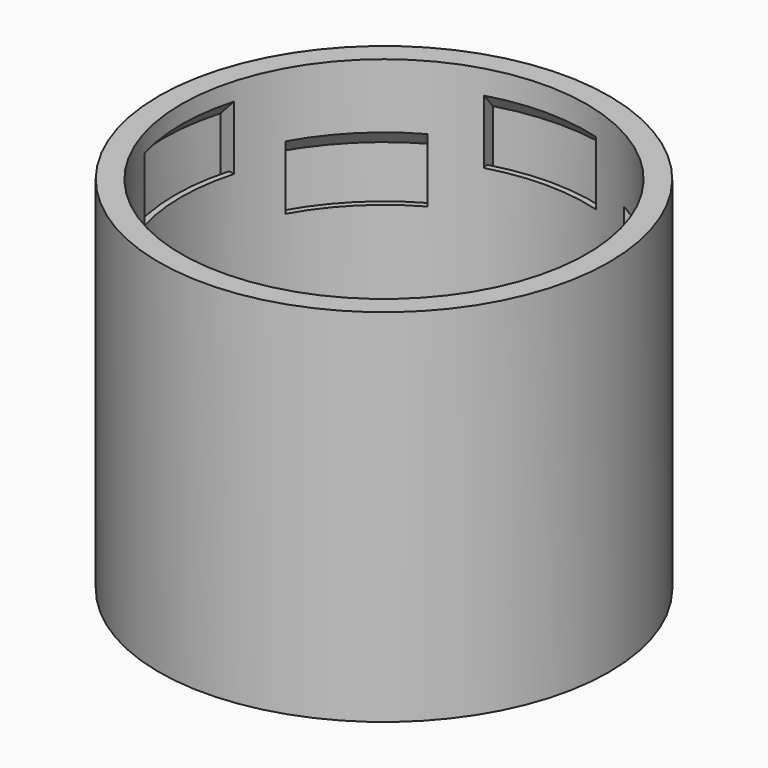
from build123d import *

# Parameters (mm, degrees)
F2_ANGLE_BACK  = 16
F2_ANGLE       = 32
F4_ANGLE_BACK  = 16
F4_ANGLE       = 32
F6_DEPTH       = 0.1
F8_ANGLE_BACK  = 16
F8_ANGLE       = 32
F10_ANGLE_BACK = 16
F10_ANGLE      = 32


with BuildPart() as f1:
    # F0 (on Front) → F1 (revolve)
    with BuildSketch(Plane.XZ):
        Polygon((-35, 42.8018823761), (-34, 42.8018823761), (-34, 44.8018823761), (-34, 48.5), (-34, 53), (-34, 53.5), (-37, 50.5), (-37, 48.5), (-37, 37.8018823761), (-35, 37.8018823761), (-35, 41.8022545199), align=None)
        Polygon((-37.35, -4), (-34, 0), (-34, 0.8), (-34, 10.8), (-34, 21), (-34, 36.8018823761), (-34, 37.8018823761), (-34, 42.8018823761), (-35, 42.8018823761), (-35, 41.8022545199), (-35, 37.8018823761), (-37, 37.8018823761), (-37, 48.5), (-37, 50.5), (-34, 53.5), (-34, 54.5), (-34, 56.5), (-37.75, 56.5), (-37.75, -4), align=None)
        Polygon((0, 0.8), (-24, 0.8), (-24, 0), (-23, 0), (0, 0), align=None)
        Polygon((-24, 0), (-27, 0), (-25, -4), (-23, 0), align=None)
        with BuildLine():
            Line((-34, 10.8), (-34, 0.8))
            Line((-34, 0.8), (-24, 0.8))
            ThreePointArc((-24, 0.8), (-31.0710678119, 3.7289321881), (-34, 10.8))
        make_face()
        Polygon((-34, 0.8), (-34, 0), (-27, 0), (-24, 0), (-24, 0.8), align=None)
    revolve(axis=Axis((0, 0, 27.5), (0, 0, 1)))

    # F0 (on Front) → F2 (revolve, cut)
    with BuildSketch(Plane.XZ, mode=Mode.PRIVATE) as f2_sk:
        Polygon((-35, 42.8018823761), (-34, 42.8018823761), (-34, 44.8018823761), (-34, 48.5), (-34, 53), (-34, 53.5), (-37, 50.5), (-37, 48.5), (-37, 37.8018823761), (-35, 37.8018823761), (-35, 41.8022545199), align=None)
        Polygon((35, 37.802), (37, 37.802), (37, 39.8018823761), (37, 48.5001176239), (37, 50.5001176239), (34, 53.5001176239), (34, 53.0001176239), (34, 48.5001176239), (34, 42.802), (35, 42.802), (35, 41.8023721437), align=None)
    revolve(f2_sk.sketch.rotate(Axis((0, 0, 27.5), (0, 0, -1)), -F2_ANGLE_BACK), axis=Axis((0, 0, 27.5), (0, 0, -1)), revolution_arc=F2_ANGLE, mode=Mode.SUBTRACT)

    # F3 (on Right) → F4 (revolve, cut)
    with BuildSketch(Plane.YZ, mode=Mode.PRIVATE) as f4_sk:
        Polygon((-34, 52.0001176239), (-34, 52.5001176239), (-37, 49.5001176239), (-37, 47.5001176239), (-37, 36.802), (-35, 36.802), (-35, 40.8023721437), (-35, 41.802), (-34, 41.802), (-34, 47.5001176239), align=None)
        Polygon((37, 49.5001176239), (34, 52.5001176239), (34, 52.0001176239), (34, 47.5001176239), (34, 41.802), (35, 41.802), (35, 40.8023721437), (35, 36.802), (37, 36.802), (37, 39.8018823761), (37, 47.5001176239), align=None)
    revolve(f4_sk.sketch.rotate(Axis((0, 0, 27.5), (0, 0, -1)), -F4_ANGLE_BACK), axis=Axis((0, 0, 27.5), (0, 0, -1)), revolution_arc=F4_ANGLE, mode=Mode.SUBTRACT)

    # F7 (on face) → F8 (revolve, cut)
    with BuildSketch(Plane(origin=(0, 0, 0), x_dir=(0.7071067812, 0.7071067812, 0), z_dir=(0.7071067812, -0.7071067812, 0)), mode=Mode.PRIVATE) as f8_sk:
        Polygon((-34, 45.1981176239), (-34, 45.6981176239), (-37, 42.6981176239), (-37, 40.6981176239), (-37, 30), (-35, 30), (-35, 34.0003721437), (-35, 35), (-34, 35), (-34, 40.6981176239), align=None)
        Polygon((35, 30), (37, 30), (37, 40.6981176239), (37, 42.6981176239), (34, 45.6981176239), (34, 45.1981176239), (34, 40.6981176239), (34, 35), (35, 35), (35, 34.0003721437), align=None)
    revolve(f8_sk.sketch.rotate(Axis((0, 0, 27.5), (0, 0, -1)), -F8_ANGLE_BACK), axis=Axis((0, 0, 27.5), (0, 0, -1)), revolution_arc=F8_ANGLE, mode=Mode.SUBTRACT)

    # F9 (on face) → F10 (revolve, cut)
    with BuildSketch(Plane(origin=(0, 0, 0), x_dir=(0.7071067812, -0.7071067812, 0), z_dir=(-0.7071067812, -0.7071067812, 0)), mode=Mode.PRIVATE) as f10_sk:
        Polygon((-34, 45.1981176239), (-34, 45.6981176239), (-37, 42.6981176239), (-37, 40.6981176239), (-37, 30), (-35, 30), (-35, 34.0003721437), (-35, 35), (-34, 35), (-34, 40.6981176239), align=None)
        Polygon((35, 30), (37, 30), (37, 40.6981176239), (37, 42.6981176239), (34, 45.6981176239), (34, 45.1981176239), (34, 40.6981176239), (34, 35), (35, 35), (35, 34.0003721437), align=None)
    revolve(f10_sk.sketch.rotate(Axis((0, 0, 27.5), (0, 0, -1)), -F10_ANGLE_BACK), axis=Axis((0, 0, 27.5), (0, 0, -1)), revolution_arc=F10_ANGLE, mode=Mode.SUBTRACT)


with BuildPart() as f6:
    # F5 (on Top) → F6 (new body)
    with BuildSketch(Plane.XY):
        Polygon((0, 0), (2.1277666092, 2.1277666092), (0, 4.2555332184), align=None)
        Polygon((-2.1277666092, 2.1277666092), (0, 0), (0, 4.2555332184), align=None)
    extrude(amount=F6_DEPTH)


solid = Compound([f1.part, f6.part])
